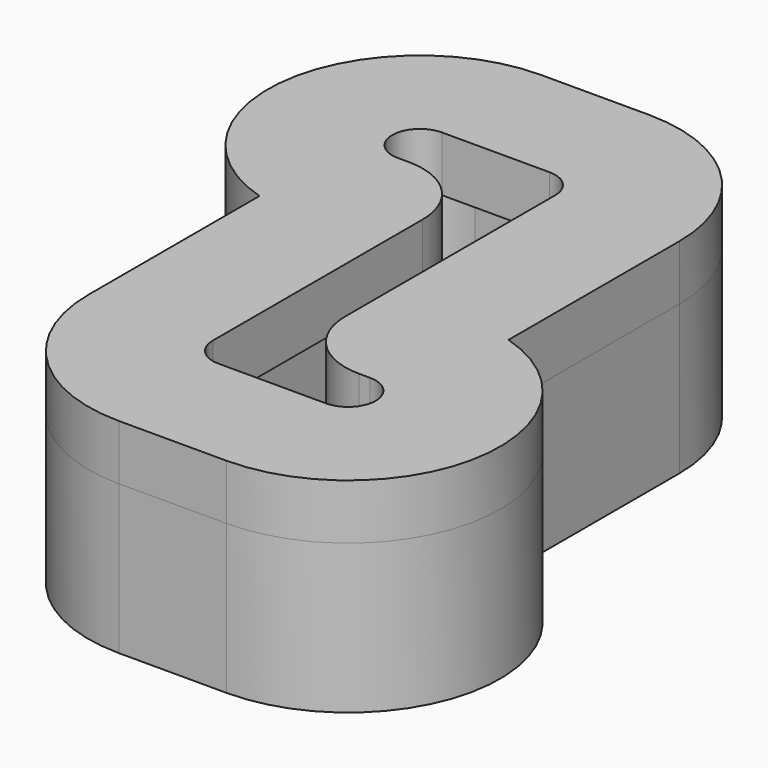
from build123d import *

# Parameters (mm, degrees)
F1_DEPTH = 5
F2_START = 5
F2_DEPTH = 8.5
F3_START = 13.5
F3_DEPTH = 5


with BuildPart() as f1:
    # F0 (on Top) → F1 (new body)
    with BuildSketch(Plane.XY):
        with BuildLine():
            ThreePointArc((13.7499991953, 16.25), (9.7227176723, 25.9727176723), (0, 29.9999991953))
            Line((0, 29.9999991953), (-9.75, 29.9999991953))
            ThreePointArc((-9.75, 29.9999991953), (-23.3505172364, 18.2719813983), (-13.7499991953, 3.0946784794))
            Line((-13.7499991953, 3.0946784794), (-13.7499991953, -16.25))
            ThreePointArc((-13.7499991953, -16.25), (-9.7227176723, -25.9727176723), (0, -29.9999991953))
            Line((0, -29.9999991953), (9.75, -29.9999991953))
            ThreePointArc((9.75, -29.9999991953), (23.3505172364, -18.2719813983), (13.7499991953, -3.0946784794))
            Line((13.7499991953, -3.0946784794), (13.7499991953, 16.25))
        make_face()
        with BuildLine():
            ThreePointArc((-9.75, 10), (-16, 16.25), (-9.75, 22.5))
            Line((-9.75, 22.5), (0, 22.5))
            ThreePointArc((0, 22.5), (4.4194173824, 20.6694173824), (6.25, 16.25))
            Line((6.25, 16.25), (6.25, -7.5))
            ThreePointArc((6.25, -7.5), (6.982233047, -9.267766953), (8.75, -10))
            Line((8.75, -10), (9.75, -10))
            ThreePointArc((9.75, -10), (16, -16.25), (9.75, -22.5))
            Line((9.75, -22.5), (0, -22.5))
            ThreePointArc((0, -22.5), (-4.4194173824, -20.6694173824), (-6.25, -16.25))
            Line((-6.25, -16.25), (-6.25, 7.5))
            ThreePointArc((-6.25, 7.5), (-6.982233047, 9.267766953), (-8.75, 10))
            Line((-8.75, 10), (-9.75, 10))
        make_face(mode=Mode.SUBTRACT)
        with BuildLine():
            Line((0, 22.5), (-9.75, 22.5))
            ThreePointArc((-9.75, 22.5), (-16, 16.25), (-9.75, 10))
            Line((-9.75, 10), (-8.75, 10))
            ThreePointArc((-8.75, 10), (-6.982233047, 9.267766953), (-6.25, 7.5))
            Line((-6.25, 7.5), (-6.25, -16.25))
            ThreePointArc((-6.25, -16.25), (-4.4194173824, -20.6694173824), (0, -22.5))
            Line((0, -22.5), (9.75, -22.5))
            ThreePointArc((9.75, -22.5), (16, -16.25), (9.75, -10))
            Line((9.75, -10), (8.75, -10))
            ThreePointArc((8.75, -10), (6.982233047, -9.267766953), (6.25, -7.5))
            Line((6.25, -7.5), (6.25, 16.25))
            ThreePointArc((6.25, 16.25), (4.4194173824, 20.6694173824), (0, 22.5))
        make_face()
        with BuildLine():
            Line((-2.5, -16.25), (-2.5, 7.5))
            ThreePointArc((-2.5, 7.5), (-4.3305826176, 11.9194173824), (-8.75, 13.75))
            Line((-8.75, 13.75), (-9.75, 13.75))
            ThreePointArc((-9.75, 13.75), (-12.25, 16.25), (-9.75, 18.75))
            Line((-9.75, 18.75), (0, 18.75))
            ThreePointArc((0, 18.75), (1.767766953, 18.017766953), (2.5, 16.25))
            Line((2.5, 16.25), (2.5, -7.5))
            ThreePointArc((2.5, -7.5), (4.3305826176, -11.9194173824), (8.75, -13.75))
            Line((8.75, -13.75), (9.75, -13.75))
            ThreePointArc((9.75, -13.75), (12.25, -16.25), (9.75, -18.75))
            Line((9.75, -18.75), (0, -18.75))
            ThreePointArc((0, -18.75), (-1.767766953, -18.017766953), (-2.5, -16.25))
        make_face(mode=Mode.SUBTRACT)
        with BuildLine():
            ThreePointArc((-8.75, 13.75), (-4.3305826176, 11.9194173824), (-2.5, 7.5))
            Line((-2.5, 7.5), (-2.5, -16.25))
            ThreePointArc((-2.5, -16.25), (-1.767766953, -18.017766953), (0, -18.75))
            Line((0, -18.75), (9.75, -18.75))
            ThreePointArc((9.75, -18.75), (12.25, -16.25), (9.75, -13.75))
            Line((9.75, -13.75), (8.75, -13.75))
            ThreePointArc((8.75, -13.75), (4.3305826176, -11.9194173824), (2.5, -7.5))
            Line((2.5, -7.5), (2.5, 16.25))
            ThreePointArc((2.5, 16.25), (1.767766953, 18.017766953), (0, 18.75))
            Line((0, 18.75), (-9.75, 18.75))
            ThreePointArc((-9.75, 18.75), (-12.25, 16.25), (-9.75, 13.75))
            Line((-9.75, 13.75), (-8.75, 13.75))
        make_face()
    extrude(amount=F1_DEPTH)

    # F0 (on Top) → F2 (join)
    with BuildSketch(Plane.XY.offset(F2_START)):
        with BuildLine():
            ThreePointArc((13.7499991953, 16.25), (9.7227176723, 25.9727176723), (0, 29.9999991953))
            Line((0, 29.9999991953), (-9.75, 29.9999991953))
            ThreePointArc((-9.75, 29.9999991953), (-23.3505172364, 18.2719813983), (-13.7499991953, 3.0946784794))
            Line((-13.7499991953, 3.0946784794), (-13.7499991953, -16.25))
            ThreePointArc((-13.7499991953, -16.25), (-9.7227176723, -25.9727176723), (0, -29.9999991953))
            Line((0, -29.9999991953), (9.75, -29.9999991953))
            ThreePointArc((9.75, -29.9999991953), (23.3505172364, -18.2719813983), (13.7499991953, -3.0946784794))
            Line((13.7499991953, -3.0946784794), (13.7499991953, 16.25))
        make_face()
        with BuildLine():
            ThreePointArc((-9.75, 10), (-16, 16.25), (-9.75, 22.5))
            Line((-9.75, 22.5), (0, 22.5))
            ThreePointArc((0, 22.5), (4.4194173824, 20.6694173824), (6.25, 16.25))
            Line((6.25, 16.25), (6.25, -7.5))
            ThreePointArc((6.25, -7.5), (6.982233047, -9.267766953), (8.75, -10))
            Line((8.75, -10), (9.75, -10))
            ThreePointArc((9.75, -10), (16, -16.25), (9.75, -22.5))
            Line((9.75, -22.5), (0, -22.5))
            ThreePointArc((0, -22.5), (-4.4194173824, -20.6694173824), (-6.25, -16.25))
            Line((-6.25, -16.25), (-6.25, 7.5))
            ThreePointArc((-6.25, 7.5), (-6.982233047, 9.267766953), (-8.75, 10))
            Line((-8.75, 10), (-9.75, 10))
        make_face(mode=Mode.SUBTRACT)
    extrude(amount=F2_DEPTH)


with BuildPart() as f3:
    # F0 (on Top) → F3 (new body)
    with BuildSketch(Plane.XY.offset(F3_START)):
        with BuildLine():
            ThreePointArc((13.7499991953, 16.25), (9.7227176723, 25.9727176723), (0, 29.9999991953))
            Line((0, 29.9999991953), (-9.75, 29.9999991953))
            ThreePointArc((-9.75, 29.9999991953), (-23.3505172364, 18.2719813983), (-13.7499991953, 3.0946784794))
            Line((-13.7499991953, 3.0946784794), (-13.7499991953, -16.25))
            ThreePointArc((-13.7499991953, -16.25), (-9.7227176723, -25.9727176723), (0, -29.9999991953))
            Line((0, -29.9999991953), (9.75, -29.9999991953))
            ThreePointArc((9.75, -29.9999991953), (23.3505172364, -18.2719813983), (13.7499991953, -3.0946784794))
            Line((13.7499991953, -3.0946784794), (13.7499991953, 16.25))
        make_face()
        with BuildLine():
            ThreePointArc((-9.75, 10), (-16, 16.25), (-9.75, 22.5))
            Line((-9.75, 22.5), (0, 22.5))
            ThreePointArc((0, 22.5), (4.4194173824, 20.6694173824), (6.25, 16.25))
            Line((6.25, 16.25), (6.25, -7.5))
            ThreePointArc((6.25, -7.5), (6.982233047, -9.267766953), (8.75, -10))
            Line((8.75, -10), (9.75, -10))
            ThreePointArc((9.75, -10), (16, -16.25), (9.75, -22.5))
            Line((9.75, -22.5), (0, -22.5))
            ThreePointArc((0, -22.5), (-4.4194173824, -20.6694173824), (-6.25, -16.25))
            Line((-6.25, -16.25), (-6.25, 7.5))
            ThreePointArc((-6.25, 7.5), (-6.982233047, 9.267766953), (-8.75, 10))
            Line((-8.75, 10), (-9.75, 10))
        make_face(mode=Mode.SUBTRACT)
        with BuildLine():
            Line((0, 22.5), (-9.75, 22.5))
            ThreePointArc((-9.75, 22.5), (-16, 16.25), (-9.75, 10))
            Line((-9.75, 10), (-8.75, 10))
            ThreePointArc((-8.75, 10), (-6.982233047, 9.267766953), (-6.25, 7.5))
            Line((-6.25, 7.5), (-6.25, -16.25))
            ThreePointArc((-6.25, -16.25), (-4.4194173824, -20.6694173824), (0, -22.5))
            Line((0, -22.5), (9.75, -22.5))
            ThreePointArc((9.75, -22.5), (16, -16.25), (9.75, -10))
            Line((9.75, -10), (8.75, -10))
            ThreePointArc((8.75, -10), (6.982233047, -9.267766953), (6.25, -7.5))
            Line((6.25, -7.5), (6.25, 16.25))
            ThreePointArc((6.25, 16.25), (4.4194173824, 20.6694173824), (0, 22.5))
        make_face()
        with BuildLine():
            Line((-2.5, -16.25), (-2.5, 7.5))
            ThreePointArc((-2.5, 7.5), (-4.3305826176, 11.9194173824), (-8.75, 13.75))
            Line((-8.75, 13.75), (-9.75, 13.75))
            ThreePointArc((-9.75, 13.75), (-12.25, 16.25), (-9.75, 18.75))
            Line((-9.75, 18.75), (0, 18.75))
            ThreePointArc((0, 18.75), (1.767766953, 18.017766953), (2.5, 16.25))
            Line((2.5, 16.25), (2.5, -7.5))
            ThreePointArc((2.5, -7.5), (4.3305826176, -11.9194173824), (8.75, -13.75))
            Line((8.75, -13.75), (9.75, -13.75))
            ThreePointArc((9.75, -13.75), (12.25, -16.25), (9.75, -18.75))
            Line((9.75, -18.75), (0, -18.75))
            ThreePointArc((0, -18.75), (-1.767766953, -18.017766953), (-2.5, -16.25))
        make_face(mode=Mode.SUBTRACT)
    extrude(amount=F3_DEPTH)


solid = Compound([f1.part, f3.part])
